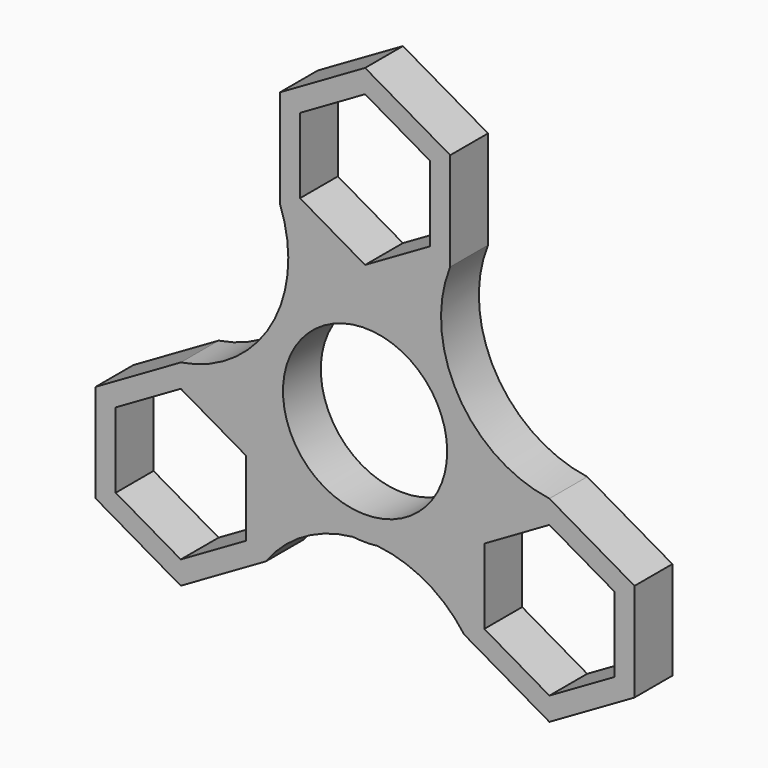
from build123d import *

# Parameters (mm, degrees)
F0_R     = 11.0236
F1_DEPTH = 6.35


with BuildPart() as f1:
    # F0 (on Front) → F1 (new body)
    with BuildSketch(Plane.XZ):
        with BuildLine():
            ThreePointArc((1.6449254306, -14.1924936702), (10.6685174307, -9.5034410652), (14.2875, 0))
            ThreePointArc((14.2875, 0), (-9.5034410652, 10.6685174307), (-1.6449254306, -14.1924936702))
            ThreePointArc((-1.6449254306, -14.1924936702), (0, -14.1101591352), (1.6449254306, -14.1924936702))
        make_face()
        Circle(F0_R, mode=Mode.SUBTRACT)
        with BuildLine():
            ThreePointArc((-1.6449254306, -14.1924936702), (-9.5034410652, 10.6685174307), (14.2875, 0))
            ThreePointArc((14.2875, 0), (10.6685174307, -9.5034410652), (1.6449254306, -14.1924936702))
            ThreePointArc((1.6449254306, -14.1924936702), (8.1954370855, -16.2935260616), (13.3166759131, -20.8866135768))
            Line((13.3166759131, -20.8866135768), (13.3166759131, -7.6883864232))
            Line((13.3166759131, -7.6883864232), (24.7466759131, -1.0892728463))
            ThreePointArc((24.7466759131, -1.0892728463), (12.4591994924, 7.1933221808), (11.43, 21.9758864232))
            Line((11.43, 21.9758864232), (0, 15.3767728463))
            Line((0, 15.3767728463), (-11.43, 21.9758864232))
            ThreePointArc((-11.43, 21.9758864232), (-12.610072429, 7.2804287114), (-24.7466759131, -1.0892728463))
            Line((-24.7466759131, -1.0892728463), (-13.3166759131, -7.6883864232))
            Line((-13.3166759131, -7.6883864232), (-13.3166759131, -20.8866135768))
            ThreePointArc((-13.3166759131, -20.8866135768), (-8.1954370855, -16.2935260616), (-1.6449254306, -14.1924936702))
        make_face()
        with BuildLine():
            ThreePointArc((1.6449254306, -14.1924936702), (0, -14.1101591352), (-1.6449254306, -14.1924936702))
            ThreePointArc((-1.6449254306, -14.1924936702), (0, -14.2875), (1.6449254306, -14.1924936702))
        make_face()
        Polygon((-24.7466759131, -27.4857271537), (-13.3166759131, -20.8866135768), (-13.3166759131, -7.6883864232), (-24.7466759131, -1.0892728463), (-36.1766759131, -7.6883864232), (-36.1766759131, -20.8866135768), align=None)
        Polygon((-33.4842759131, -19.3321557121), (-33.4842759131, -9.2428442879), (-24.7466759131, -4.1981885759), (-16.0090759131, -9.2428442879), (-16.0090759131, -19.3321557121), (-24.7466759131, -24.3768114241), align=None, mode=Mode.SUBTRACT)
        Polygon((13.3166759131, -7.6883864232), (13.3166759131, -20.8866135768), (24.7466759131, -27.4857271537), (36.1766759131, -20.8866135768), (36.1766759131, -7.6883864232), (24.7466759131, -1.0892728463), align=None)
        Polygon((33.4842759131, -19.3321557121), (24.7466759131, -24.3768114241), (16.0090759131, -19.3321557121), (16.0090759131, -9.2428442879), (24.7466759131, -4.1981885759), (33.4842759131, -9.2428442879), align=None, mode=Mode.SUBTRACT)
        Polygon((-11.43, 35.1741135768), (-11.43, 21.9758864232), (0, 15.3767728463), (11.43, 21.9758864232), (11.43, 35.1741135768), (0, 41.7732271537), align=None)
        Polygon((0, 38.6643114241), (8.7376, 33.6196557121), (8.7376, 23.5303442879), (0, 18.4856885759), (-8.7376, 23.5303442879), (-8.7376, 33.6196557121), align=None, mode=Mode.SUBTRACT)
    extrude(amount=F1_DEPTH)


solid = f1.part
